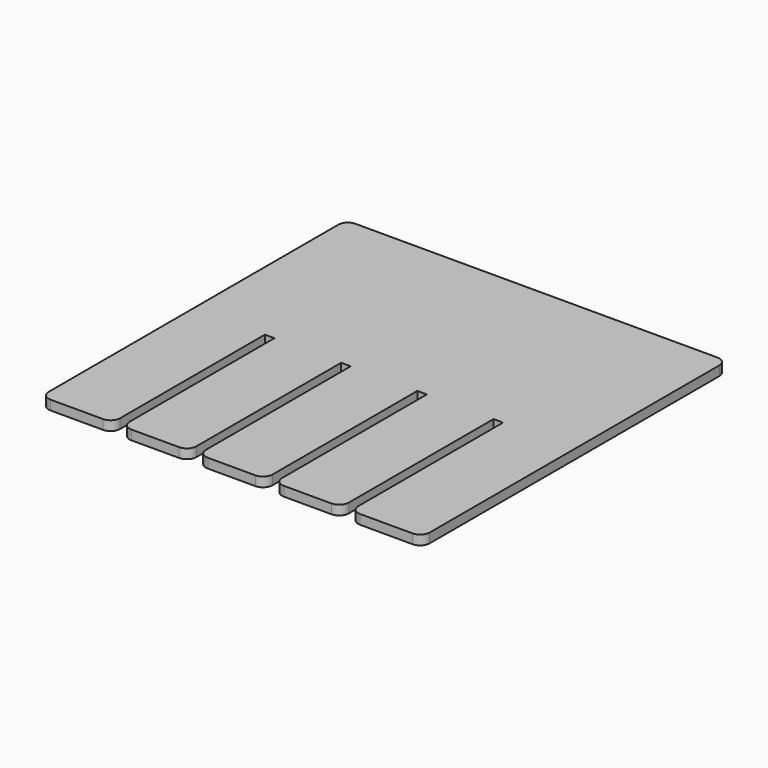
from build123d import *

# Parameters (mm, degrees)
F1_DEPTH = 6.35


with BuildPart() as f1:
    # F0 (on Top) → F1 (new body)
    with BuildSketch(Plane.XY):
        with BuildLine():
            ThreePointArc((127, 120.65), (125.140128, 125.140128), (120.65, 127))
            Line((120.65, 127), (-120.65, 127))
            ThreePointArc((-120.65, 127), (-125.140128, 125.140128), (-127, 120.65))
            Line((-127, 120.65), (-127, -120.65))
            ThreePointArc((-127, -120.65), (-125.140128, -125.140128), (-120.65, -127))
            Line((-120.65, -127), (-85.725, -127))
            ThreePointArc((-85.725, -127), (-81.234872, -125.140128), (-79.375, -120.65))
            Line((-79.375, -120.65), (-79.375, 0))
            Line((-79.375, 0), (-73.025, 0))
            Line((-73.025, 0), (-73.025, -120.65))
            ThreePointArc((-73.025, -120.65), (-71.165128, -125.140128), (-66.675, -127))
            Line((-66.675, -127), (-34.925, -127))
            ThreePointArc((-34.925, -127), (-30.434872, -125.140128), (-28.575, -120.65))
            Line((-28.575, -120.65), (-28.575, 0))
            Line((-28.575, 0), (-22.225, 0))
            Line((-22.225, 0), (-22.225, -120.65))
            ThreePointArc((-22.225, -120.65), (-20.365128, -125.140128), (-15.875, -127))
            Line((-15.875, -127), (15.875, -127))
            ThreePointArc((15.875, -127), (20.365128, -125.140128), (22.225, -120.65))
            Line((22.225, -120.65), (22.225, 0))
            Line((22.225, 0), (28.575, 0))
            Line((28.575, 0), (28.575, -120.65))
            ThreePointArc((28.575, -120.65), (30.434872, -125.140128), (34.925, -127))
            Line((34.925, -127), (66.675, -127))
            ThreePointArc((66.675, -127), (71.165128, -125.140128), (73.025, -120.65))
            Line((73.025, -120.65), (73.025, 0))
            Line((73.025, 0), (79.375, 0))
            Line((79.375, 0), (79.375, -120.65))
            ThreePointArc((79.375, -120.65), (81.234872, -125.140128), (85.725, -127))
            Line((85.725, -127), (120.65, -127))
            ThreePointArc((120.65, -127), (125.140128, -125.140128), (127, -120.65))
            Line((127, -120.65), (127, 120.65))
        make_face()
    extrude(amount=F1_DEPTH)


solid = f1.part
